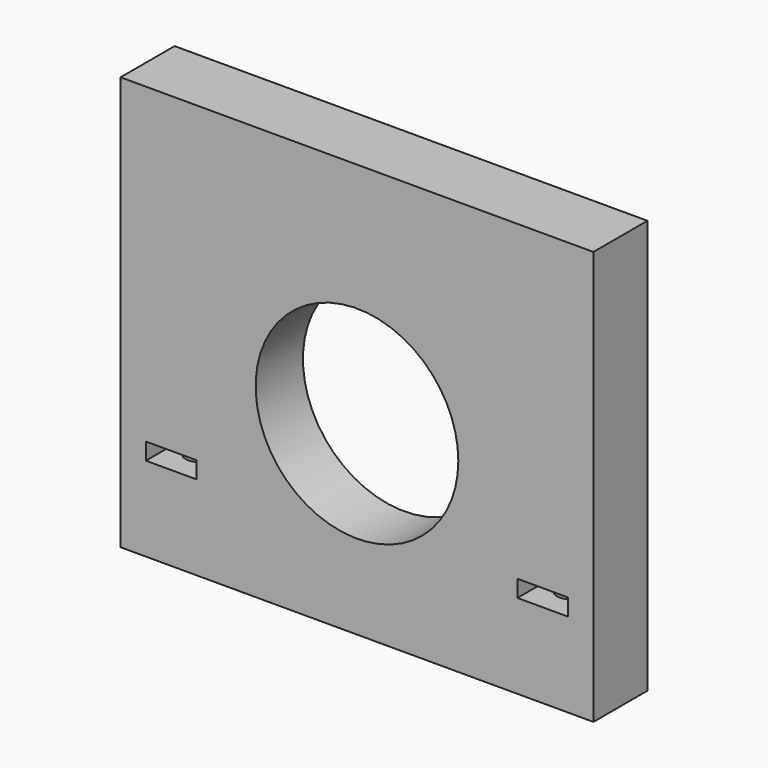
from build123d import *

# Parameters (mm, degrees)
TUBE044_R                    = 16
TUBE044_R_2                  = 8.5
TUBE044_DEPTH                = 10
CYLINDER1883_R               = 1.5
CYLINDER1883_DEPTH           = 50
CYLINDER1883_PLACEMENT_ANGLE = 45
CYLINDER1884_R               = 1.5
CYLINDER1884_DEPTH           = 50
CYLINDER1884_PLACEMENT_ANGLE = 45
BOX792_W                     = 8
BOX792_H                     = 6
BOX792_DEPTH                 = 2
BOX793_W                     = 8
BOX793_H                     = 6
BOX793_DEPTH                 = 2
CYLINDER1878_R               = 12
CYLINDER1878_DEPTH           = 20
BOX787_W                     = 56
BOX787_H                     = 8
BOX787_DEPTH                 = 49


with BuildPart() as f_6003_2rs004:
    # Tube044 → Tube044 (new body)
    with BuildSketch(Plane(origin=(0, 131, 51), x_dir=(1, 0, 0), z_dir=(0, -1, 0))):
        Circle(TUBE044_R)
        Circle(TUBE044_R_2, mode=Mode.SUBTRACT)
    extrude(amount=TUBE044_DEPTH)


with BuildPart() as obj1:
    # Cylinder1883 → Cylinder1883 (new body)
    with BuildSketch(Plane.XY):
        Circle(CYLINDER1883_R)
    extrude(amount=CYLINDER1883_DEPTH)


with BuildPart() as obj1_1:
    # Cylinder1883 placement: moved
    add(obj1.part.moved(Location((22, 118, 0))).rotate(Axis((22, 118, 0), (0, 0, 1)), CYLINDER1883_PLACEMENT_ANGLE))


with BuildPart() as compound947:
    # Cylinder1884 → Cylinder1884 (new body)
    with BuildSketch(Plane.XY):
        Circle(CYLINDER1884_R)
    extrude(amount=CYLINDER1884_DEPTH)


with BuildPart() as compound947_1:
    # Cylinder1884 placement: moved
    add(compound947.part.moved(Location((-22, 118, 0))).rotate(Axis((-22, 118, 0), (0, 0, 1)), CYLINDER1884_PLACEMENT_ANGLE))

    # Compound947: union obj1
    add(obj1_1.part)


with BuildPart() as krychle792:
    # Box792 → Box792 (new body)
    with BuildSketch(Plane(origin=(-19, 114, 39), x_dir=(0, 1, 0), z_dir=(0, 0, 1))):
        with Locations((4, 3)):
            Rectangle(BOX792_W, BOX792_H)
    extrude(amount=BOX792_DEPTH)


with BuildPart() as compound946:
    # Box793 → Box793 (new body)
    with BuildSketch(Plane(origin=(25, 114, 39), x_dir=(0, 1, 0), z_dir=(0, 0, 1))):
        with Locations((4, 3)):
            Rectangle(BOX793_W, BOX793_H)
    extrude(amount=BOX793_DEPTH)

    # Compound946: union Krychle792
    add(krychle792.part)


with BuildPart() as obj2:
    # Cylinder1878 → Cylinder1878 (new body)
    with BuildSketch(Plane(origin=(0, 124, 51), x_dir=(1, 0, 0), z_dir=(0, -1, 0))):
        Circle(CYLINDER1878_R)
    extrude(amount=CYLINDER1878_DEPTH)


with BuildPart() as cut598:
    # Box787 → Box787 (new body)
    with BuildSketch(Plane(origin=(-28, 114, 29), x_dir=(1, 0, 0), z_dir=(0, 0, 1))):
        with Locations((28, 4)):
            Rectangle(BOX787_W, BOX787_H)
    extrude(amount=BOX787_DEPTH)

    # Cut591: cut obj2
    add(obj2.part, mode=Mode.SUBTRACT)

    # Cut592: cut Compound946
    add(compound946.part, mode=Mode.SUBTRACT)

    # Cut593: cut Compound947
    add(compound947_1.part, mode=Mode.SUBTRACT)

    # Cut598: cut 6003-2RS004
    add(f_6003_2rs004.part, mode=Mode.SUBTRACT)


solid = cut598.part
